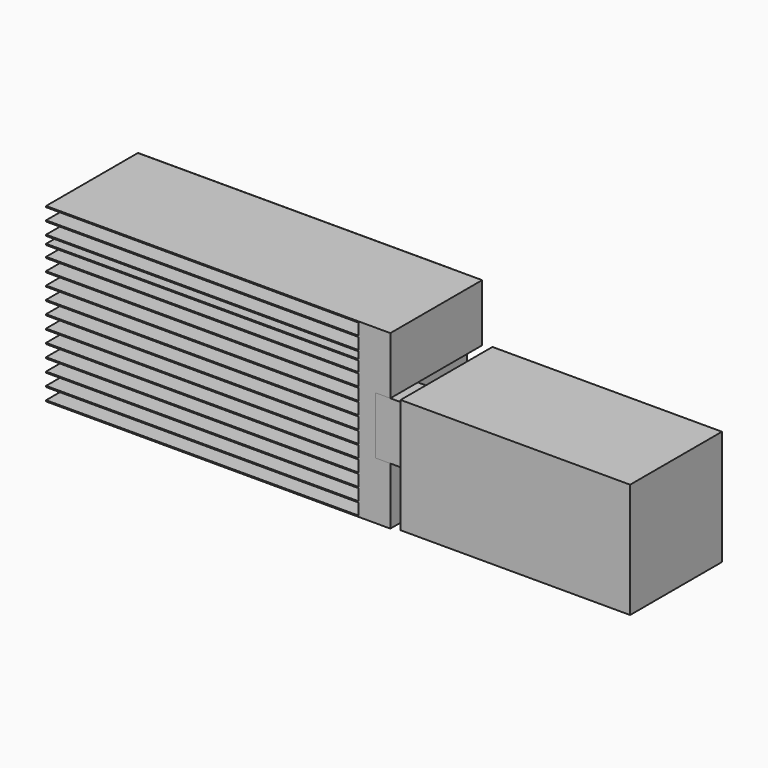
from build123d import *

# Parameters (mm, degrees)
F0_W      = 50.8
F0_H      = 25.4
F1_DEPTH  = 25.4
F2_W      = 7.62
F2_H      = 12.7
F3_DEPTH  = 12.7
F5_DEPTH  = 25.4
F7_DEPTH  = 69.12356
F22_DEPTH = 69.12356
F23_DEPTH = 69.12356
F24_DEPTH = 69.12356
F25_DEPTH = 69.12356
F26_DEPTH = 69.12356
F27_DEPTH = 69.12356
F28_DEPTH = 69.12356
F29_DEPTH = 69.12356
F30_DEPTH = 69.12356
F31_DEPTH = 69.12356
F32_DEPTH = 69.12356
F33_DEPTH = 69.12356
F34_DEPTH = 69.12356
F35_DEPTH = 69.12356


with BuildPart() as f1:
    # F0 (on Front) → F1 (new body)
    with BuildSketch(Plane.XZ):
        with Locations((25.4, 12.7)):
            Rectangle(F0_W, F0_H)
    extrude(amount=F1_DEPTH)

    # F2 (on face) → F3 (join)
    with BuildSketch(Plane(origin=(0, 0, 0), x_dir=(0, -1, 0), z_dir=(-1, 0, 0))):
        with Locations((12.7, 12.7)):
            Rectangle(F2_W, F2_H)
    extrude(amount=F3_DEPTH)


with BuildPart() as f5:
    # F4 (on face) → F5 (new body)
    with BuildSketch(Plane.XZ.offset(16.51)):
        Polygon((-85.587695, -6.35), (-9.387695, -6.35), (-9.387695, 6.35), (-12.7, 6.35), (-12.7, 19.05), (-9.387695, 19.05), (-9.387695, 31.75), (-16.464371, 31.75), (-85.587695, 31.75), (-85.587695, 31.496), (-16.464371, 31.496), (-16.464371, 28.956), (-85.587695, 28.956), (-85.587695, 28.702), (-16.464371, 28.702), (-16.464371, 26.162), (-85.587695, 26.162), (-85.587695, 25.908), (-16.464371, 25.908), (-16.464371, 24.384), (-85.587695, 24.384), (-85.587695, 24.13), (-16.464371, 24.13), (-16.464371, 21.844), (-85.587695, 21.844), (-85.587695, 21.59), (-16.464371, 21.59), (-16.464371, 19.05), (-85.587695, 19.05), (-85.587695, 18.796), (-16.464371, 18.796), (-16.464371, 16.256), (-85.587695, 16.256), (-85.587695, 16.002), (-16.464371, 16.002), (-16.464371, 13.462), (-85.587695, 13.462), (-85.587695, 13.208), (-16.464371, 13.208), (-16.464371, 10.668), (-85.587695, 10.668), (-85.587695, 10.414), (-16.464371, 10.414), (-16.464371, 7.874), (-85.587695, 7.874), (-85.587695, 7.62), (-16.464371, 7.62), (-16.464371, 5.08), (-85.587695, 5.08), (-85.587695, 4.826), (-16.464371, 4.826), (-16.464371, 2.286), (-85.587695, 2.286), (-85.587695, 2.032), (-16.464371, 2.032), (-16.464371, -0.508), (-85.587695, -0.508), (-85.587695, -0.762), (-16.464371, -0.762), (-16.464371, -3.302), (-85.587695, -3.302), (-85.587695, -3.556), (-16.464371, -3.556), (-16.464371, -6.096), (-85.587695, -6.096), align=None)
    extrude(amount=-F5_DEPTH)

    # F6 (on face) → F7 (join)
    with BuildSketch(Plane(origin=(-85.587695, 0, 0), x_dir=(0, -1, 0), z_dir=(-1, 0, 0))):
        Polygon((-8.89, 31.496), (-8.89, 31.75), (-9.111261, 31.623), align=None)
    extrude(amount=-F7_DEPTH)

    # F8 (on face) → F22 (join)
    with BuildSketch(Plane(origin=(-85.587695, 0, 0), x_dir=(0, -1, 0), z_dir=(-1, 0, 0))):
        Polygon((-8.89, 28.702), (-8.89, 28.956), (-9.119693, 28.829), align=None)
    extrude(amount=-F22_DEPTH)

    # F16 (on face) → F30 (join)
    with BuildSketch(Plane(origin=(-85.587695, 0, 0), x_dir=(0, -1, 0), z_dir=(-1, 0, 0))):
        Polygon((-8.89, 7.62), (-8.89, 7.874), (-9.158145, 7.747), align=None)
    extrude(amount=-F30_DEPTH)

    # F17 (on face) → F31 (join)
    with BuildSketch(Plane(origin=(-85.587695, 0, 0), x_dir=(0, -1, 0), z_dir=(-1, 0, 0))):
        Polygon((-8.89, 4.826), (-8.89, 5.08), (-9.125492, 4.953), align=None)
    extrude(amount=-F31_DEPTH)

    # F19 (on face) → F33 (join)
    with BuildSketch(Plane(origin=(-85.587695, 0, 0), x_dir=(0, -1, 0), z_dir=(-1, 0, 0))):
        Polygon((-8.89, -0.762), (-8.89, -0.508), (-9.155607, -0.635), align=None)
    extrude(amount=-F33_DEPTH)

    # F20 (on face) → F34 (join)
    with BuildSketch(Plane(origin=(-85.587695, 0, 0), x_dir=(0, -1, 0), z_dir=(-1, 0, 0))):
        Polygon((-8.89, -3.556), (-8.89, -3.302), (-9.136191, -3.429), align=None)
    extrude(amount=-F34_DEPTH)

    # F21 (on face) → F35 (join)
    with BuildSketch(Plane(origin=(-85.587695, 0, 0), x_dir=(0, -1, 0), z_dir=(-1, 0, 0))):
        Polygon((-8.89, -6.35), (-8.89, -6.096), (-9.116775, -6.223), align=None)
    extrude(amount=-F35_DEPTH)


with BuildPart() as f23:
    # F9 (on face) → F23 (new body)
    with BuildSketch(Plane(origin=(-85.587695, 0, 0), x_dir=(0, -1, 0), z_dir=(-1, 0, 0))):
        Polygon((-8.89, 25.908), (-8.89, 26.162), (-9.10997, 26.035), align=None)
    extrude(amount=-F23_DEPTH)


with BuildPart() as f24:
    # F10 (on face) → F24 (new body)
    with BuildSketch(Plane(origin=(-85.587695, 0, 0), x_dir=(0, -1, 0), z_dir=(-1, 0, 0))):
        Polygon((-8.89, 24.13), (-8.89, 24.384), (-9.11242, 24.257), align=None)
    extrude(amount=-F24_DEPTH)


with BuildPart() as f25:
    # F11 (on face) → F25 (new body)
    with BuildSketch(Plane(origin=(-85.587695, 0, 0), x_dir=(0, -1, 0), z_dir=(-1, 0, 0))):
        Polygon((-8.89, 21.59), (-8.89, 21.844), (-9.105149, 21.717), align=None)
    extrude(amount=-F25_DEPTH)


with BuildPart() as f26:
    # F12 (on face) → F26 (new body)
    with BuildSketch(Plane(origin=(-85.587695, 0, 0), x_dir=(0, -1, 0), z_dir=(-1, 0, 0))):
        Polygon((-8.89, 18.796), (-8.89, 19.05), (-9.141512, 18.923), align=None)
    extrude(amount=-F26_DEPTH)


with BuildPart() as f27:
    # F13 (on face) → F27 (new body)
    with BuildSketch(Plane(origin=(-85.587695, 0, 0), x_dir=(0, -1, 0), z_dir=(-1, 0, 0))):
        Polygon((-8.89, 16.002), (-8.89, 16.256), (-9.10997, 16.129), align=None)
    extrude(amount=-F27_DEPTH)


with BuildPart() as f28:
    # F14 (on face) → F28 (new body)
    with BuildSketch(Plane(origin=(-85.587695, 0, 0), x_dir=(0, -1, 0), z_dir=(-1, 0, 0))):
        Polygon((-8.89, 13.208), (-8.89, 13.462), (-9.167424, 13.335), align=None)
    extrude(amount=-F28_DEPTH)


with BuildPart() as f29:
    # F15 (on face) → F29 (new body)
    with BuildSketch(Plane(origin=(-85.587695, 0, 0), x_dir=(0, -1, 0), z_dir=(-1, 0, 0))):
        Polygon((-8.89, 10.414), (-8.89, 10.668), (-9.140471, 10.541), align=None)
    extrude(amount=-F29_DEPTH)


with BuildPart() as f32:
    # F18 (on face) → F32 (new body)
    with BuildSketch(Plane(origin=(-85.587695, 0, 0), x_dir=(0, -1, 0), z_dir=(-1, 0, 0))):
        Polygon((-8.89, 2.032), (-8.89, 2.286), (-9.116775, 2.159), align=None)
    extrude(amount=-F32_DEPTH)


solid = Compound([f1.part, f5.part, f23.part, f24.part, f25.part, f26.part, f27.part, f28.part, f29.part, f32.part])
